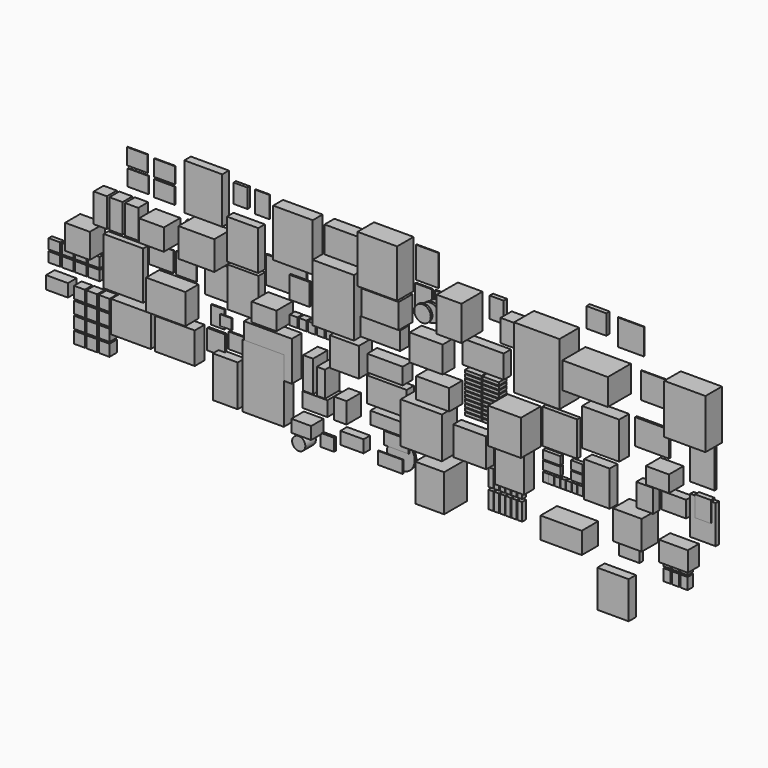
from build123d import *

# Parameters (mm, degrees)
F0_W       = 550
F0_H       = 750
F1_DEPTH   = 300
F2_W       = 500
F2_H       = 280
F3_DEPTH   = 110
F4_W       = 200
F4_H       = 35
F5_DEPTH   = 120
F6_W       = 550
F6_H       = 320
F7_DEPTH   = 350
F8_W       = 420
F8_H       = 420
F9_DEPTH   = 50
F10_W      = 450
F10_H      = 450
F11_DEPTH  = 150
F12_W      = 400
F12_H      = 430
F13_DEPTH  = 300
F14_W      = 310
F14_H      = 430
F15_DEPTH  = 120
F16_W      = 400
F16_H      = 350
F17_DEPTH  = 120
F18_W      = 170
F18_H      = 250
F19_DEPTH  = 50
F20_W      = 200
F20_H      = 270
F21_DEPTH  = 170
F22_W      = 400
F22_H      = 320
F23_DEPTH  = 180
F24_W      = 400
F24_H      = 250
F25_DEPTH  = 200
F26_W      = 300
F26_H      = 420
F27_DEPTH  = 320
F28_W      = 205
F28_H      = 260
F29_DEPTH  = 15
F30_R      = 130
F31_DEPTH  = 30
F32_R      = 107.5
F33_DEPTH  = 25
F34_R      = 100
F35_DEPTH  = 25
F36_W      = 500
F36_H      = 500
F37_DEPTH  = 230
F38_W      = 430
F38_H      = 200
F39_DEPTH  = 150
F40_W      = 350
F40_H      = 450
F41_DEPTH  = 150
F42_W      = 210
F42_H      = 100
F42_W_2    = 65
F42_H_2    = 105
F42_W_3    = 140
F43_DEPTH  = 45
F44_W      = 480
F44_H      = 220
F45_DEPTH  = 135
F46_W      = 450
F46_H      = 300
F47_DEPTH  = 210
F48_W      = 480
F48_H      = 300
F49_DEPTH  = 110
F50_W      = 300
F50_H      = 180
F50_W_2    = 120
F50_H_2    = 380
F50_W_3    = 100
F50_H_3    = 310
F50_W_4    = 139.823398
F50_H_4    = 125.242114
F51_DEPTH  = 220
F52_W      = 350
F52_H      = 350
F53_DEPTH  = 200
F54_W      = 500
F54_H      = 700
F55_DEPTH  = 200
F56_W      = 93
F56_H      = 115
F57_DEPTH  = 80
F58_W      = 488
F58_H      = 327
F59_DEPTH  = 15
F60_W      = 244
F60_H      = 265
F61_DEPTH  = 20
F62_W      = 580
F62_H      = 480
F63_DEPTH  = 150
F64_W      = 400
F64_H      = 150
F65_DEPTH  = 120
F66_W      = 480
F66_H      = 580
F67_DEPTH  = 250
F68_W      = 400
F68_H      = 320
F69_DEPTH  = 150
F70_W      = 480
F70_H      = 580
F71_DEPTH  = 150
F72_W      = 270
F72_H      = 375
F73_DEPTH  = 10
F74_W      = 380
F74_H      = 480
F75_DEPTH  = 100
F76_W      = 380
F76_H      = 480
F77_DEPTH  = 100
F78_W      = 300
F78_H      = 220
F79_DEPTH  = 250
F80_W      = 160
F80_H      = 215
F81_DEPTH  = 15
F82_W      = 140
F82_H      = 125
F83_DEPTH  = 11
F84_W      = 250
F84_H      = 188
F85_DEPTH  = 15
F86_W      = 280
F86_H      = 380
F87_DEPTH  = 10
F88_W      = 435
F88_H      = 350
F89_DEPTH  = 250
F90_W      = 460
F90_H      = 560
F91_DEPTH  = 100
F92_W      = 168
F92_H      = 229
F93_DEPTH  = 36
F94_W      = 178
F94_H      = 260
F95_DEPTH  = 10
F96_W      = 250
F96_H      = 195
F97_DEPTH  = 10
F98_W      = 250
F98_H      = 195
F99_DEPTH  = 10
F100_W     = 250
F100_H     = 195
F101_DEPTH = 10
F102_W     = 250
F102_H     = 195
F103_DEPTH = 10
F104_W     = 25
F104_H     = 75
F105_DEPTH = 25
F106_W     = 300
F106_H     = 260
F107_DEPTH = 250
F108_W     = 250
F108_H     = 250
F109_DEPTH = 10
F110_W     = 300
F110_H     = 240
F111_DEPTH = 10
F112_W     = 475
F112_H     = 365
F113_DEPTH = 200
F114_W     = 215
F114_H     = 240
F115_DEPTH = 25
F116_W     = 480
F116_H     = 380
F117_DEPTH = 150
F118_W     = 480
F118_H     = 380
F119_DEPTH = 150
F120_W     = 480
F120_H     = 580
F121_DEPTH = 70
F122_W     = 160
F122_H     = 350
F123_DEPTH = 150
F124_W     = 300
F124_H     = 300
F125_DEPTH = 230
F126_W     = 140
F126_H     = 120
F127_DEPTH = 50
F128_W     = 130
F128_H     = 140
F129_DEPTH = 115
F130_W     = 265
F130_H     = 155
F131_DEPTH = 130
F132_W     = 240
F132_H     = 240
F133_DEPTH = 50
F134_W     = 315
F134_H     = 315
F135_DEPTH = 10
F136_W     = 315
F136_H     = 315
F137_DEPTH = 10
F138_W     = 410
F138_H     = 310
F139_DEPTH = 25
F140_W     = 200
F140_H     = 280
F141_DEPTH = 100
F142_W     = 300
F142_H     = 200
F143_DEPTH = 100
F144_W     = 280
F144_H     = 200
F145_DEPTH = 220
F146_W     = 500
F146_H     = 600
F147_DEPTH = 250
F148_W     = 300
F148_H     = 480
F149_DEPTH = 30
F150_W     = 350
F150_H     = 350
F151_DEPTH = 250
F152_W     = 500
F152_H     = 260
F153_DEPTH = 250
F154_W     = 60
F154_H     = 210
F155_DEPTH = 60
F156_W     = 350
F156_H     = 450
F157_DEPTH = 350
F158_R     = 167.5
F159_DEPTH = 25
F160_W     = 300
F160_H     = 150
F161_DEPTH = 10
F163_DEPTH = 10
F164_W     = 280
F164_H     = 150
F165_DEPTH = 100
F166_W     = 240
F166_H     = 150
F167_DEPTH = 190
F168_W     = 165
F168_H     = 150
F169_DEPTH = 30
F170_R     = 80
F171_DEPTH = 160
F172_W     = 500
F172_H     = 770
F173_DEPTH = 150
F174_W     = 350
F174_H     = 240
F175_DEPTH = 170
F176_W     = 250
F176_H     = 220
F177_DEPTH = 50
F178_W     = 190
F178_H     = 250
F179_DEPTH = 60
F180_W     = 310
F180_H     = 460
F181_DEPTH = 50
F182_W     = 300
F182_H     = 500
F183_DEPTH = 110
F184_W     = 85
F184_H     = 140
F185_DEPTH = 85
F186_W     = 380
F186_H     = 450
F187_DEPTH = 110


with BuildPart() as f1:
    # F0 (on Front) → F1 (new body)
    with BuildSketch(Plane.XZ):
        with Locations((-5.758531, 126.466954)):
            Rectangle(F0_W, F0_H)
    extrude(amount=F1_DEPTH)


with BuildPart() as f3:
    # F2 (on Front) → F3 (new body)
    with BuildSketch(Plane.XZ):
        with Locations((-809.283376, -140)):
            Rectangle(F2_W, F2_H)
    extrude(amount=F3_DEPTH)


with BuildPart() as f5:
    # F4 (on Front) → F5 (new body)
    with BuildSketch(Plane.XZ):
        with Locations((-920.736082, -787.336412)):
            Rectangle(F4_W, F4_H)
        with Locations((-920.736082, -742.336412)):
            Rectangle(F4_W, F4_H)
        with Locations((-920.736082, -697.336412)):
            Rectangle(F4_W, F4_H)
        with Locations((-920.736082, -652.336412)):
            Rectangle(F4_W, F4_H)
        with Locations((-920.736082, -607.336412)):
            Rectangle(F4_W, F4_H)
        with Locations((-920.736082, -562.336412)):
            Rectangle(F4_W, F4_H)
        with Locations((-920.736082, -517.336412)):
            Rectangle(F4_W, F4_H)
        with Locations((-920.736082, -472.336412)):
            Rectangle(F4_W, F4_H)
        with Locations((-920.736082, -427.336412)):
            Rectangle(F4_W, F4_H)
        with Locations((-920.736082, -382.336412)):
            Rectangle(F4_W, F4_H)
        with Locations((-920.736082, -337.336412)):
            Rectangle(F4_W, F4_H)
        with Locations((-710.736082, -787.336412)):
            Rectangle(F4_W, F4_H)
        with Locations((-710.736082, -742.336412)):
            Rectangle(F4_W, F4_H)
        with Locations((-710.736082, -697.336412)):
            Rectangle(F4_W, F4_H)
        with Locations((-710.736082, -652.336412)):
            Rectangle(F4_W, F4_H)
        with Locations((-710.736082, -607.336412)):
            Rectangle(F4_W, F4_H)
        with Locations((-710.736082, -562.336412)):
            Rectangle(F4_W, F4_H)
        with Locations((-710.736082, -517.336412)):
            Rectangle(F4_W, F4_H)
        with Locations((-710.736082, -472.336412)):
            Rectangle(F4_W, F4_H)
        with Locations((-710.736082, -427.336412)):
            Rectangle(F4_W, F4_H)
        with Locations((-710.736082, -382.336412)):
            Rectangle(F4_W, F4_H)
        with Locations((-710.736082, -337.336412)):
            Rectangle(F4_W, F4_H)
    extrude(amount=F5_DEPTH)


with BuildPart() as f7:
    # F6 (on Front) → F7 (new body)
    with BuildSketch(Plane.XZ):
        with Locations((620.581984, 160)):
            Rectangle(F6_W, F6_H)
    extrude(amount=F7_DEPTH)


with BuildPart() as f9:
    # F8 (on Front) → F9 (new body)
    with BuildSketch(Plane.XZ):
        with Locations((74.117646, -662.914789)):
            Rectangle(F8_W, F8_H)
    extrude(amount=F9_DEPTH)


with BuildPart() as f11:
    # F10 (on Front) → F11 (new body)
    with BuildSketch(Plane.XZ):
        with Locations((649.422675, -447.695083)):
            Rectangle(F10_W, F10_H)
    extrude(amount=F11_DEPTH)


with BuildPart() as f13:
    # F12 (on Front) → F13 (new body)
    with BuildSketch(Plane.XZ):
        with Locations((-396.952897, -705.510828)):
            Rectangle(F12_W, F12_H)
    extrude(amount=F13_DEPTH)


with BuildPart() as f15:
    # F14 (on Front) → F15 (new body)
    with BuildSketch(Plane.XZ):
        with Locations((580.310794, -1017.479926)):
            Rectangle(F14_W, F14_H)
    extrude(amount=F15_DEPTH)


with BuildPart() as f17:
    # F16 (on Front) → F17 (new body)
    with BuildSketch(Plane.XZ):
        with Locations((-962.405324, -1122.76335)):
            Rectangle(F16_W, F16_H)
    extrude(amount=F17_DEPTH)


with BuildPart() as f19:
    # F18 (on Front) → F19 (new body)
    with BuildSketch(Plane.XZ):
        with Locations((-691.494823, 399.740946)):
            Rectangle(F18_W, F18_H)
    extrude(amount=F19_DEPTH)


with BuildPart() as f21:
    # F20 (on Front) → F21 (new body)
    with BuildSketch(Plane.XZ):
        with Locations((-449.309975, 274.472074)):
            Rectangle(F20_W, F20_H)
    extrude(amount=F21_DEPTH)


with BuildPart() as f23:
    # F22 (on Front) → F23 (new body)
    with BuildSketch(Plane.XZ):
        with Locations((-1442.993104, -258.178537)):
            Rectangle(F22_W, F22_H)
    extrude(amount=F23_DEPTH)


with BuildPart() as f25:
    # F24 (on Front) → F25 (new body)
    with BuildSketch(Plane.XZ):
        with Locations((-1348.034263, -648.964945)):
            Rectangle(F24_W, F24_H)
    extrude(amount=F25_DEPTH)


with BuildPart() as f27:
    # F26 (on Front) → F27 (new body)
    with BuildSketch(Plane.XZ):
        with Locations((-1053.062499, 295.030328)):
            Rectangle(F26_W, F26_H)
    extrude(amount=F27_DEPTH)


with BuildPart() as f29:
    # F28 (on Front) → F29 (new body)
    with BuildSketch(Plane.XZ):
        with Locations((-1368.313551, 211.368448)):
            Rectangle(F28_W, F28_H)
        with Locations((-1605.361543, 209.102159)):
            Rectangle(F28_W, F28_H)
    extrude(amount=F29_DEPTH)


with BuildPart() as f31:
    # F30 (on face) → F31 (new body)
    with BuildSketch(Plane.XZ.offset(15)):
        with Locations((-1407.860077, 143.14202)):
            Circle(F30_R)
    extrude(amount=F31_DEPTH)

    # F32 (on face) → F33 (join)
    with BuildSketch(Plane.XZ.offset(45)):
        with Locations((-1481.461048, 120.937034)):
            Circle(F32_R)
    extrude(amount=F33_DEPTH)

    # F34 (on face) → F35 (join)
    with BuildSketch(Plane.XZ.offset(70)):
        with Locations((-1555.287361, 96.328281)):
            Circle(F34_R)
    extrude(amount=F35_DEPTH)


with BuildPart() as f37:
    # F36 (on Front) → F37 (new body)
    with BuildSketch(Plane.XZ):
        with Locations((-1462.305069, -1064.650416)):
            Rectangle(F36_W, F36_H)
    extrude(amount=F37_DEPTH)


with BuildPart() as f39:
    # F38 (on Front) → F39 (new body)
    with BuildSketch(Plane.XZ):
        with Locations((-1966.738224, -612.179306)):
            Rectangle(F38_W, F38_H)
    extrude(amount=F39_DEPTH)


with BuildPart() as f41:
    # F40 (on Front) → F41 (new body)
    with BuildSketch(Plane.XZ):
        with Locations((-457.018822, -1177.322673)):
            Rectangle(F40_W, F40_H)
    extrude(amount=F41_DEPTH)


with BuildPart() as f43:
    # F42 (on Front) → F43 (new body)
    with BuildSketch(Plane.XZ):
        with Locations((-29.678317, -965.741379)):
            Rectangle(F42_W, F42_H)
        with Locations((-29.678317, -1079.074693)):
            Rectangle(F42_W, F42_H)
        with Locations((-102.178317, -1203.96655)):
            Rectangle(F42_W_2, F42_H_2)
        with Locations((-32.178317, -1203.96655)):
            Rectangle(F42_W_2, F42_H_2)
        with Locations((37.821683, -1203.96655)):
            Rectangle(F42_W_2, F42_H_2)
        with Locations((107.821683, -1203.96655)):
            Rectangle(F42_W_2, F42_H_2)
        with Locations((177.821683, -1203.96655)):
            Rectangle(F42_W_2, F42_H_2)
        with Locations((247.821683, -1203.96655)):
            Rectangle(F42_W_2, F42_H_2)
        with Locations((317.821683, -1203.96655)):
            Rectangle(F42_W_2, F42_H_2)
        with Locations((275.908314, -1079.074693)):
            Rectangle(F42_W_3, F42_H)
        with Locations((275.908314, -965.741379)):
            Rectangle(F42_W_3, F42_H)
    extrude(amount=F43_DEPTH)


with BuildPart() as f45:
    # F44 (on Front) → F45 (new body)
    with BuildSketch(Plane.XZ):
        with Locations((-2033.827066, -255.118162)):
            Rectangle(F44_W, F44_H)
    extrude(amount=F45_DEPTH)


with BuildPart() as f47:
    # F46 (on Front) → F47 (new body)
    with BuildSketch(Plane.XZ):
        with Locations((-1977.868938, 52.235207)):
            Rectangle(F46_W, F46_H)
    extrude(amount=F47_DEPTH)


with BuildPart() as f49:
    # F48 (on Front) → F49 (new body)
    with BuildSketch(Plane.XZ):
        with Locations((-1976.059427, -920.725965)):
            Rectangle(F48_W, F48_H)
    extrude(amount=F49_DEPTH)


with BuildPart() as f51:
    # F50 (on Front) → F51 (new body)
    with BuildSketch(Plane.XZ):
        with Locations((-2759.563303, -1210.946951)):
            Rectangle(F50_W, F50_H)
        with Locations((-2843.285561, -923.481029)):
            Rectangle(F50_W_2, F50_H_2)
        with Locations((-2688.021135, -958.810092)):
            Rectangle(F50_W_3, F50_H_3)
        with Locations((-2457.580347, -1117.466688)):
            Rectangle(F50_W_4, F50_H_4)
        Polygon((-2377.492046, -1054.845631), (-2387.668648, -1054.845631), (-2387.668648, -1180.087745), (-2527.492046, -1180.087745), (-2527.492046, -1304.845631), (-2377.492046, -1304.845631), align=None)
    extrude(amount=F51_DEPTH)


with BuildPart() as f53:
    # F52 (on Front) → F53 (new body)
    with BuildSketch(Plane.XZ):
        with Locations((-2419.110823, -604.392248)):
            Rectangle(F52_W, F52_H)
    extrude(amount=F53_DEPTH)


with BuildPart() as f55:
    # F54 (on Front) → F55 (new body)
    with BuildSketch(Plane.XZ):
        with Locations((-2554.08287, -42.587256)):
            Rectangle(F54_W, F54_H)
    extrude(amount=F55_DEPTH)


with BuildPart() as f57:
    # F56 (on Front) → F57 (new body)
    with BuildSketch(Plane.XZ):
        with Locations((-3131.785122, -504.445667)):
            Rectangle(F56_W, F56_H)
        with Locations((-3021.785122, -504.445667)):
            Rectangle(F56_W, F56_H)
        with Locations((-2911.785122, -504.445667)):
            Rectangle(F56_W, F56_H)
        with Locations((-2801.785122, -504.445667)):
            Rectangle(F56_W, F56_H)
        with Locations((-2691.785122, -504.445667)):
            Rectangle(F56_W, F56_H)
    extrude(amount=F57_DEPTH)


with BuildPart() as f59:
    # F58 (on Front) → F59 (new body)
    with BuildSketch(Plane.XZ):
        with Locations((-3273.451763, -104.19723)):
            Rectangle(F58_W, F58_H)
    extrude(amount=F59_DEPTH)

    # F60 (on face) → F61 (join)
    with BuildSketch(Plane.XZ.offset(15)):
        with Locations((-3097.180584, -185.50907)):
            Rectangle(F60_W, F60_H)
    extrude(amount=F61_DEPTH)


with BuildPart() as f63:
    # F62 (on Front) → F63 (new body)
    with BuildSketch(Plane.XZ):
        with Locations((-3386.372566, -891.464924)):
            Rectangle(F62_W, F62_H)
    extrude(amount=F63_DEPTH)


with BuildPart() as f65:
    # F64 (on Front) → F65 (new body)
    with BuildSketch(Plane.XZ):
        with Locations((-1969.209862, -1203.255606)):
            Rectangle(F64_W, F64_H)
    extrude(amount=F65_DEPTH)


with BuildPart() as f67:
    # F66 (on Front) → F67 (new body)
    with BuildSketch(Plane.XZ):
        with Locations((-1979.854693, 527.203524)):
            Rectangle(F66_W, F66_H)
    extrude(amount=F67_DEPTH)


with BuildPart() as f69:
    # F68 (on Front) → F69 (new body)
    with BuildSketch(Plane.XZ):
        with Locations((-2499.872866, 538.965344)):
            Rectangle(F68_W, F68_H)
    extrude(amount=F69_DEPTH)


with BuildPart() as f71:
    # F70 (on Front) → F71 (new body)
    with BuildSketch(Plane.XZ):
        with Locations((-3083.029509, 407.529985)):
            Rectangle(F70_W, F70_H)
    extrude(amount=F71_DEPTH)


with BuildPart() as f73:
    # F72 (on Front) → F73 (new body)
    with BuildSketch(Plane.XZ):
        with Locations((-1566.749444, 562.424421)):
            Rectangle(F72_W, F72_H)
    extrude(amount=F73_DEPTH)


with BuildPart() as f75:
    # F74 (on Front) → F75 (new body)
    with BuildSketch(Plane.XZ):
        with Locations((-3729.759274, -384.076899)):
            Rectangle(F74_W, F74_H)
    extrude(amount=F75_DEPTH)


with BuildPart() as f77:
    # F76 (on Front) → F77 (new body)
    with BuildSketch(Plane.XZ):
        with Locations((-3733.990612, 124.665802)):
            Rectangle(F76_W, F76_H)
    extrude(amount=F77_DEPTH)


with BuildPart() as f79:
    # F78 (on Front) → F79 (new body)
    with BuildSketch(Plane.XZ):
        with Locations((-3354.024553, -455.487326)):
            Rectangle(F78_W, F78_H)
    extrude(amount=F79_DEPTH)


with BuildPart() as f81:
    # F80 (on Front) → F81 (new body)
    with BuildSketch(Plane.XZ):
        with Locations((-4103.669405, -801.809004)):
            Rectangle(F80_W, F80_H)
    extrude(amount=F81_DEPTH)

    # F82 (on face) → F83 (join)
    with BuildSketch(Plane.XZ.offset(15)):
        with Locations((-3995.656185, -816.276848)):
            Rectangle(F82_W, F82_H)
    extrude(amount=F83_DEPTH)


with BuildPart() as f85:
    # F84 (on Front) → F85 (new body)
    with BuildSketch(Plane.XZ):
        with Locations((-3847.432494, -1007.173825)):
            Rectangle(F84_W, F84_H)
    extrude(amount=F85_DEPTH)


with BuildPart() as f87:
    # F86 (on Front) → F87 (new body)
    with BuildSketch(Plane.XZ):
        with Locations((-4120.564103, -420.224161)):
            Rectangle(F86_W, F86_H)
    extrude(amount=F87_DEPTH)


with BuildPart() as f89:
    # F88 (on Front) → F89 (new body)
    with BuildSketch(Plane.XZ):
        with Locations((-4174.623222, -2.327743)):
            Rectangle(F88_W, F88_H)
    extrude(amount=F89_DEPTH)


with BuildPart() as f91:
    # F90 (on Front) → F91 (new body)
    with BuildSketch(Plane.XZ):
        with Locations((-4210.829496, 516.983838)):
            Rectangle(F90_W, F90_H)
    extrude(amount=F91_DEPTH)


with BuildPart() as f93:
    # F92 (on Front) → F93 (new body)
    with BuildSketch(Plane.XZ):
        with Locations((-3810.25219, 597.870958)):
            Rectangle(F92_W, F92_H)
    extrude(amount=F93_DEPTH)


with BuildPart() as f95:
    # F94 (on Front) → F95 (new body)
    with BuildSketch(Plane.XZ):
        with Locations((-3568.485737, 573.076864)):
            Rectangle(F94_W, F94_H)
    extrude(amount=F95_DEPTH)


with BuildPart() as f97:
    # F96 (on Front) → F97 (new body)
    with BuildSketch(Plane.XZ):
        with Locations((-4752.927542, 539.254391)):
            Rectangle(F96_W, F96_H)
    extrude(amount=F97_DEPTH)


with BuildPart() as f99:
    # F98 (on Front) → F99 (new body)
    with BuildSketch(Plane.XZ):
        with Locations((-4755.535841, 320.285284)):
            Rectangle(F98_W, F98_H)
    extrude(amount=F99_DEPTH)


with BuildPart() as f101:
    # F100 (on Front) → F101 (new body)
    with BuildSketch(Plane.XZ):
        with Locations((-5084.21731, 555.070826)):
            Rectangle(F100_W, F100_H)
    extrude(amount=F101_DEPTH)


with BuildPart() as f103:
    # F102 (on Front) → F103 (new body)
    with BuildSketch(Plane.XZ):
        with Locations((-5073.921919, 330.536628)):
            Rectangle(F102_W, F102_H)
    extrude(amount=F103_DEPTH)


with BuildPart() as f105:
    # F104 (on Front) → F105 (new body)
    with BuildSketch(Plane.XZ):
        with Locations((-4464.96172, 76.799908)):
            Rectangle(F104_W, F104_H)
    extrude(amount=F105_DEPTH)


with BuildPart() as f107:
    # F106 (on Front) → F107 (new body)
    with BuildSketch(Plane.XZ):
        with Locations((-4719.58065, -30.593929)):
            Rectangle(F106_W, F106_H)
    extrude(amount=F107_DEPTH)


with BuildPart() as f109:
    # F108 (on Front) → F109 (new body)
    with BuildSketch(Plane.XZ):
        with Locations((-4489.125967, -391.223595)):
            Rectangle(F108_W, F108_H)
    extrude(amount=F109_DEPTH)


with BuildPart() as f111:
    # F110 (on Front) → F111 (new body)
    with BuildSketch(Plane.XZ):
        with Locations((-4793.401623, -390.468324)):
            Rectangle(F110_W, F110_H)
    extrude(amount=F111_DEPTH)


with BuildPart() as f113:
    # F112 (on Front) → F113 (new body)
    with BuildSketch(Plane.XZ):
        with Locations((-4586.459637, -721.122378)):
            Rectangle(F112_W, F112_H)
    extrude(amount=F113_DEPTH)


with BuildPart() as f115:
    # F114 (on Front) → F115 (new body)
    with BuildSketch(Plane.XZ):
        with Locations((-4115.520878, -1071.453269)):
            Rectangle(F114_W, F114_H)
    extrude(amount=F115_DEPTH)


with BuildPart() as f117:
    # F116 (on Front) → F117 (new body)
    with BuildSketch(Plane.XZ):
        with Locations((-4514.167557, -1135.13005)):
            Rectangle(F116_W, F116_H)
    extrude(amount=F117_DEPTH)


with BuildPart() as f119:
    # F118 (on Front) → F119 (new body)
    with BuildSketch(Plane.XZ):
        with Locations((-5047.698736, -1127.463412)):
            Rectangle(F118_W, F118_H)
    extrude(amount=F119_DEPTH)


with BuildPart() as f121:
    # F120 (on Front) → F121 (new body)
    with BuildSketch(Plane.XZ):
        with Locations((-5203.216782, -616.775461)):
            Rectangle(F120_W, F120_H)
    extrude(amount=F121_DEPTH)


with BuildPart() as f123:
    # F122 (on Front) → F123 (new body)
    with BuildSketch(Plane.XZ):
        with Locations((-5419.363422, -33.781427)):
            Rectangle(F122_W, F122_H)
        with Locations((-5229.363422, -33.781427)):
            Rectangle(F122_W, F122_H)
        with Locations((-5039.363422, -33.781427)):
            Rectangle(F122_W, F122_H)
    extrude(amount=F123_DEPTH)


with BuildPart() as f125:
    # F124 (on Front) → F125 (new body)
    with BuildSketch(Plane.XZ):
        with Locations((-5632.949734, -402.720505)):
            Rectangle(F124_W, F124_H)
    extrude(amount=F125_DEPTH)


with BuildPart() as f127:
    # F126 (on Front) → F127 (new body)
    with BuildSketch(Plane.XZ):
        with Locations((-6056.539062, -802.237381)):
            Rectangle(F126_W, F126_H)
        with Locations((-6056.539062, -662.237381)):
            Rectangle(F126_W, F126_H)
        with Locations((-5896.539062, -802.237381)):
            Rectangle(F126_W, F126_H)
        with Locations((-5896.539062, -662.237381)):
            Rectangle(F126_W, F126_H)
        with Locations((-5736.539062, -802.237381)):
            Rectangle(F126_W, F126_H)
        with Locations((-5736.539062, -662.237381)):
            Rectangle(F126_W, F126_H)
        with Locations((-5576.539062, -802.237381)):
            Rectangle(F126_W, F126_H)
        with Locations((-5576.539062, -662.237381)):
            Rectangle(F126_W, F126_H)
    extrude(amount=F127_DEPTH)


with BuildPart() as f129:
    # F128 (on Front) → F129 (new body)
    with BuildSketch(Plane.XZ):
        with Locations((-5701.22551, -1517.089355)):
            Rectangle(F128_W, F128_H)
        with Locations((-5701.22551, -1357.089355)):
            Rectangle(F128_W, F128_H)
        with Locations((-5701.22551, -1197.089355)):
            Rectangle(F128_W, F128_H)
        with Locations((-5701.22551, -1037.089355)):
            Rectangle(F128_W, F128_H)
        with Locations((-5551.22551, -1517.089355)):
            Rectangle(F128_W, F128_H)
        with Locations((-5551.22551, -1357.089355)):
            Rectangle(F128_W, F128_H)
        with Locations((-5551.22551, -1197.089355)):
            Rectangle(F128_W, F128_H)
        with Locations((-5551.22551, -1037.089355)):
            Rectangle(F128_W, F128_H)
        with Locations((-5401.22551, -1517.089355)):
            Rectangle(F128_W, F128_H)
        with Locations((-5401.22551, -1357.089355)):
            Rectangle(F128_W, F128_H)
        with Locations((-5401.22551, -1197.089355)):
            Rectangle(F128_W, F128_H)
        with Locations((-5401.22551, -1037.089355)):
            Rectangle(F128_W, F128_H)
    extrude(amount=F129_DEPTH)


with BuildPart() as f131:
    # F130 (on Front) → F131 (new body)
    with BuildSketch(Plane.XZ):
        with Locations((-5960.839577, -1030.808344)):
            Rectangle(F130_W, F130_H)
    extrude(amount=F131_DEPTH)


with BuildPart() as f133:
    # F132 (on Front) → F133 (new body)
    with BuildSketch(Plane.XZ):
        with Locations((517.317742, 674.540845)):
            Rectangle(F132_W, F132_H)
    extrude(amount=F133_DEPTH)


with BuildPart() as f135:
    # F134 (on Front) → F135 (new body)
    with BuildSketch(Plane.XZ):
        with Locations((902.612717, 612.343193)):
            Rectangle(F134_W, F134_H)
    extrude(amount=F135_DEPTH)


with BuildPart() as f137:
    # F136 (on Front) → F137 (new body)
    with BuildSketch(Plane.XZ):
        with Locations((1183.891237, 135.877975)):
            Rectangle(F136_W, F136_H)
    extrude(amount=F137_DEPTH)


with BuildPart() as f139:
    # F138 (on Front) → F139 (new body)
    with BuildSketch(Plane.XZ):
        with Locations((1172.537953, -371.563531)):
            Rectangle(F138_W, F138_H)
    extrude(amount=F139_DEPTH)


with BuildPart() as f141:
    # F140 (on Front) → F141 (new body)
    with BuildSketch(Plane.XZ):
        with Locations((1141.222358, -992.798569)):
            Rectangle(F140_W, F140_H)
    extrude(amount=F141_DEPTH)


with BuildPart() as f143:
    # F142 (on Front) → F143 (new body)
    with BuildSketch(Plane.XZ):
        with Locations((1495.300412, -948.529676)):
            Rectangle(F142_W, F142_H)
    extrude(amount=F143_DEPTH)


with BuildPart() as f145:
    # F144 (on Front) → F145 (new body)
    with BuildSketch(Plane.XZ):
        with Locations((1393.561721, -665.808742)):
            Rectangle(F144_W, F144_H)
    extrude(amount=F145_DEPTH)


with BuildPart() as f147:
    # F146 (on Front) → F147 (new body)
    with BuildSketch(Plane.XZ):
        with Locations((1750.171185, 136.012473)):
            Rectangle(F146_W, F146_H)
    extrude(amount=F147_DEPTH)


with BuildPart() as f149:
    # F148 (on Front) → F149 (new body)
    with BuildSketch(Plane.XZ):
        with Locations((1784.719706, -444.091766)):
            Rectangle(F148_W, F148_H)
    extrude(amount=F149_DEPTH)


with BuildPart() as f151:
    # F150 (on Front) → F151 (new body)
    with BuildSketch(Plane.XZ):
        with Locations((1052.369475, -1302.658317)):
            Rectangle(F150_W, F150_H)
    extrude(amount=F151_DEPTH)


with BuildPart() as f153:
    # F152 (on Front) → F153 (new body)
    with BuildSketch(Plane.XZ):
        with Locations((250, -1620.497388)):
            Rectangle(F152_W, F152_H)
    extrude(amount=F153_DEPTH)


with BuildPart() as f155:
    # F154 (on Front) → F155 (new body)
    with BuildSketch(Plane.XZ):
        with Locations((-753.977984, -1650.750416)):
            Rectangle(F154_W, F154_H)
        with Locations((-753.977984, -1410.750416)):
            Rectangle(F154_W, F154_H)
        with Locations((-683.977984, -1650.750416)):
            Rectangle(F154_W, F154_H)
        with Locations((-683.977984, -1410.750416)):
            Rectangle(F154_W, F154_H)
        with Locations((-613.977984, -1650.750416)):
            Rectangle(F154_W, F154_H)
        with Locations((-613.977984, -1410.750416)):
            Rectangle(F154_W, F154_H)
        with Locations((-543.977984, -1650.750416)):
            Rectangle(F154_W, F154_H)
        with Locations((-543.977984, -1410.750416)):
            Rectangle(F154_W, F154_H)
        with Locations((-473.977984, -1650.750416)):
            Rectangle(F154_W, F154_H)
        with Locations((-473.977984, -1410.750416)):
            Rectangle(F154_W, F154_H)
        with Locations((-403.977984, -1650.750416)):
            Rectangle(F154_W, F154_H)
        with Locations((-403.977984, -1410.750416)):
            Rectangle(F154_W, F154_H)
    extrude(amount=F155_DEPTH)


with BuildPart() as f157:
    # F156 (on Front) → F157 (new body)
    with BuildSketch(Plane.XZ):
        with Locations((-1264.329433, -1566.576021)):
            Rectangle(F156_W, F156_H)
    extrude(amount=F157_DEPTH)


with BuildPart() as f159:
    # F158 (on Front) → F159 (new body)
    with BuildSketch(Plane.XZ):
        with Locations((-1873.694539, -1547.833681)):
            Circle(F158_R)
    extrude(amount=F159_DEPTH)


with BuildPart() as f161:
    # F160 (on face) → F161 (new body)
    with BuildSketch(Plane.XZ.offset(25)):
        with Locations((-1921.274066, -1421.271453)):
            Rectangle(F160_W, F160_H)
    extrude(amount=F161_DEPTH)


with BuildPart() as f163:
    # F162 (on face) → F163 (new body)
    with BuildSketch(Plane.XZ.offset(25)):
        with BuildLine():
            Line((-2037.278556, -1583.840895), (-2144.326125, -1583.840895))
            Line((-2144.326125, -1583.840895), (-2144.326125, -1733.840895))
            Line((-2144.326125, -1733.840895), (-1844.326125, -1733.840895))
            Line((-1844.326125, -1733.840895), (-1844.326125, -1712.738946))
            ThreePointArc((-1844.326125, -1712.738946), (-1966.738259, -1687.114391), (-2037.278556, -1583.840895))
        make_face()
        with BuildLine():
            Line((-1844.326125, -1583.840895), (-2037.278556, -1583.840895))
            ThreePointArc((-2037.278556, -1583.840895), (-1966.738259, -1687.114391), (-1844.326125, -1712.738946))
            Line((-1844.326125, -1712.738946), (-1844.326125, -1583.840895))
        make_face()
    extrude(amount=F163_DEPTH)


with BuildPart() as f165:
    # F164 (on Front) → F165 (new body)
    with BuildSketch(Plane.XZ):
        with Locations((-2406.810045, -1550.033516)):
            Rectangle(F164_W, F164_H)
    extrude(amount=F165_DEPTH)


with BuildPart() as f167:
    # F166 (on Front) → F167 (new body)
    with BuildSketch(Plane.XZ):
        with Locations((-2950.497508, -1555.05647)):
            Rectangle(F166_W, F166_H)
    extrude(amount=F167_DEPTH)


with BuildPart() as f169:
    # F168 (on Front) → F169 (new body)
    with BuildSketch(Plane.XZ):
        with Locations((-2764.191031, -1696.765059)):
            Rectangle(F168_W, F168_H)
    extrude(amount=F169_DEPTH)


with BuildPart() as f171:
    # F170 (on Front) → F171 (new body)
    with BuildSketch(Plane.XZ):
        with Locations((-3005.126715, -1735.811591)):
            Circle(F170_R)
    extrude(amount=F171_DEPTH)


with BuildPart() as f173:
    # F172 (on Front) → F173 (new body)
    with BuildSketch(Plane.XZ):
        with Locations((-3443.777084, -1237.843077)):
            Rectangle(F172_W, F172_H)
    extrude(amount=F173_DEPTH)


with BuildPart() as f175:
    # F174 (on Front) → F175 (new body)
    with BuildSketch(Plane.XZ):
        with Locations((1547.389567, -1453.99462)):
            Rectangle(F174_W, F174_H)
    extrude(amount=F175_DEPTH)


with BuildPart() as f177:
    # F176 (on Front) → F177 (new body)
    with BuildSketch(Plane.XZ):
        with Locations((915.652514, -1631.495454)):
            Rectangle(F176_W, F176_H)
    extrude(amount=F177_DEPTH)


with BuildPart() as f179:
    # F178 (on Front) → F179 (new body)
    with BuildSketch(Plane.XZ):
        with Locations((1817.69532, -905.951063)):
            Rectangle(F178_W, F178_H)
    extrude(amount=F179_DEPTH)


with BuildPart() as f181:
    # F180 (on Front) → F181 (new body)
    with BuildSketch(Plane.XZ):
        with Locations((1809.741318, -1031.347328)):
            Rectangle(F180_W, F180_H)
    extrude(amount=F181_DEPTH)


with BuildPart() as f183:
    # F182 (on Front) → F183 (new body)
    with BuildSketch(Plane.XZ):
        with Locations((-3935.675144, -1394.289475)):
            Rectangle(F182_W, F182_H)
    extrude(amount=F183_DEPTH)


with BuildPart() as f185:
    # F184 (on Front) → F185 (new body)
    with BuildSketch(Plane.XZ):
        with Locations((1504.6346, -1747.494927)):
            Rectangle(F184_W, F184_H)
        with Locations((1399.6346, -1747.494927)):
            Rectangle(F184_W, F184_H)
        with Locations((1399.6346, -1587.494927)):
            Rectangle(F184_W, F184_H)
        with Locations((1504.6346, -1587.494927)):
            Rectangle(F184_W, F184_H)
        with Locations((1609.6346, -1587.494927)):
            Rectangle(F184_W, F184_H)
        with Locations((1609.6346, -1747.494927)):
            Rectangle(F184_W, F184_H)
    extrude(amount=F185_DEPTH)


with BuildPart() as f187:
    # F186 (on Front) → F187 (new body)
    with BuildSketch(Plane.XZ):
        with Locations((766.820163, -2141.201261)):
            Rectangle(F186_W, F186_H)
    extrude(amount=F187_DEPTH)


solid = Compound([f1.part, f3.part, f5.part, f7.part, f9.part, f11.part, f13.part, f15.part, f17.part, f19.part, f21.part, f23.part, f25.part, f27.part, f29.part, f31.part, f37.part, f39.part, f41.part, f43.part, f45.part, f47.part, f49.part, f51.part, f53.part, f55.part, f57.part, f59.part, f63.part, f65.part, f67.part, f69.part, f71.part, f73.part, f75.part, f77.part, f79.part, f81.part, f85.part, f87.part, f89.part, f91.part, f93.part, f95.part, f97.part, f99.part, f101.part, f103.part, f105.part, f107.part, f109.part, f111.part, f113.part, f115.part, f117.part, f119.part, f121.part, f123.part, f125.part, f127.part, f129.part, f131.part, f133.part, f135.part, f137.part, f139.part, f141.part, f143.part, f145.part, f147.part, f149.part, f151.part, f153.part, f155.part, f157.part, f159.part, f161.part, f163.part, f165.part, f167.part, f169.part, f171.part, f173.part, f175.part, f177.part, f179.part, f181.part, f183.part, f185.part, f187.part])
